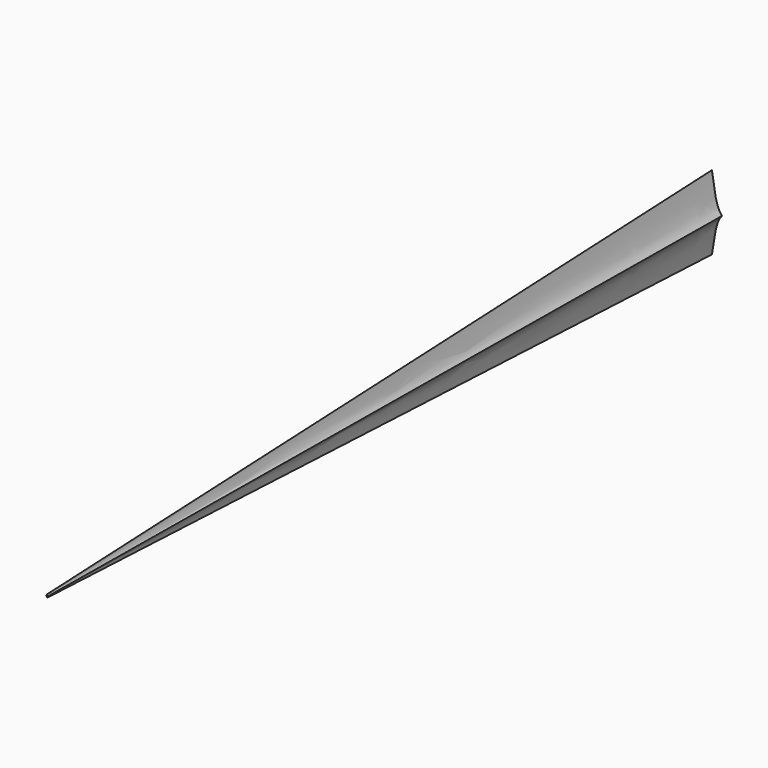
from build123d import *


with BuildPart() as f3:
    # F0 (on Front) → F3 section 0
    with BuildSketch(Plane.XZ):
        with BuildLine():
            add(Edge.make_bspline(
                [(0, 51.39631778), (2.3040610636, 35.3202059637), (5.8332414171, 10.6960764735), (11.7497353081, 2.7562355335), (13.8035863638, 0)],
                knots=[0, 0, 0, 0, 0.6528601071, 1, 1, 1, 1], degree=3))
            add(Edge.make_bspline(
                [(0, 51.39631778), (-2.3040610636, 35.3202059637), (-5.8332414171, 10.6960764735), (-11.7497353081, 2.7562355335), (-13.8035863638, 0)],
                knots=[0, 0, 0, 0, 0.6528601071, 1, 1, 1, 1], degree=3))
            add(Edge.make_bspline(
                [(0, -51.39631778), (-2.3040610636, -35.3202059637), (-5.8332414171, -10.6960764735), (-11.7497353081, -2.7562355335), (-13.8035863638, 0)],
                knots=[0, 0, 0, 0, 0.6528601071, 1, 1, 1, 1], degree=3))
            add(Edge.make_bspline(
                [(0, -51.39631778), (2.3040610636, -35.3202059637), (5.8332414171, -10.6960764735), (11.7497353081, -2.7562355335), (13.8035863638, 0)],
                knots=[0, 0, 0, 0, 0.6528601071, 1, 1, 1, 1], degree=3))
        make_face()
    # F2 (on offset) → F3 section 1
    with BuildSketch(Plane.XZ.offset(1150.62)):
        with BuildLine():
            add(Edge.make_bspline(
                [(0, 2.1546017379), (0.0271469077, 1.4908937748), (0.0745262092, 0.3325290748), (0.8227042727, 0.0995073285), (1.1421989184, 0)],
                knots=[0, 0, 0, 0, 0.5729697764, 1, 1, 1, 1], degree=3))
            add(Edge.make_bspline(
                [(0, 2.1546017379), (-0.0271469077, 1.4908937748), (-0.0745262092, 0.3325290748), (-0.8227042727, 0.0995073285), (-1.1421989184, 0)],
                knots=[0, 0, 0, 0, 0.5729697764, 1, 1, 1, 1], degree=3))
            add(Edge.make_bspline(
                [(0, -2.1546017379), (-0.0271469077, -1.4908937748), (-0.0745262092, -0.3325290748), (-0.8227042727, -0.0995073285), (-1.1421989184, 0)],
                knots=[0, 0, 0, 0, 0.5729697764, 1, 1, 1, 1], degree=3))
            add(Edge.make_bspline(
                [(0, -2.1546017379), (0.0271469077, -1.4908937748), (0.0745262092, -0.3325290748), (0.8227042727, -0.0995073285), (1.1421989184, 0)],
                knots=[0, 0, 0, 0, 0.5729697764, 1, 1, 1, 1], degree=3))
        make_face()
    loft()


solid = f3.part
